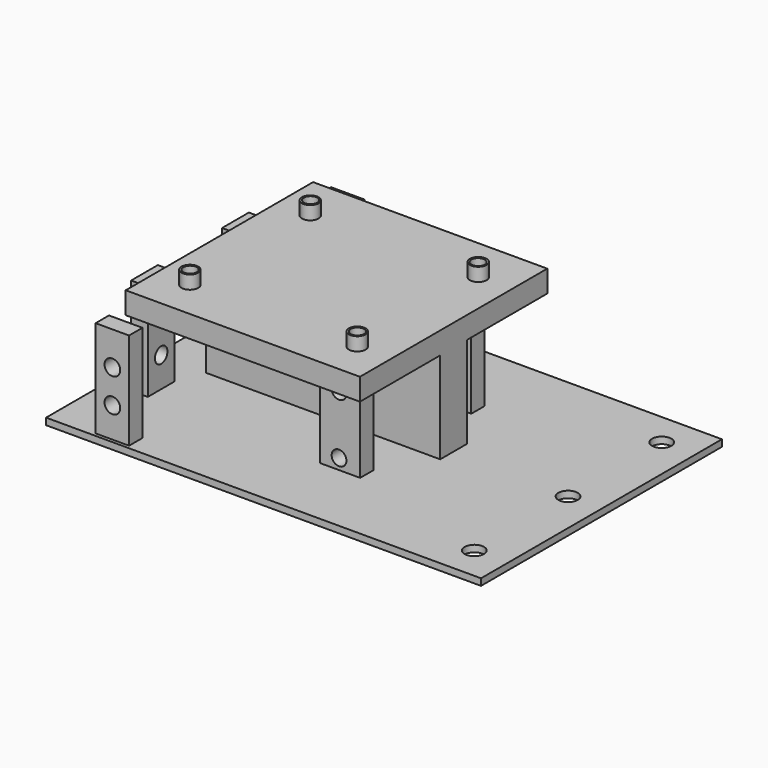
from build123d import *

# Parameters (mm, degrees)
SKETCH058_R                = 2.21
EXTRUDE064_DEPTH           = 10
SKETCH057_R                = 2.21
EXTRUDE063_DEPTH           = 10
SKETCH056_W                = 12
SKETCH056_H                = 26.01178
EXTRUDE062_DEPTH           = 5
SKETCH055_R                = 2.21
EXTRUDE061_DEPTH           = 10
SKETCH054_R                = 2.21
EXTRUDE060_DEPTH           = 10
SKETCH053_W                = 12
SKETCH053_H                = 26.01178
EXTRUDE059_DEPTH           = 5
SKETCH048_R                = 2.34
EXTRUDE050_DEPTH           = 20
SKETCH047_W                = 10
SKETCH047_H                = 30
EXTRUDE049_DEPTH           = 5
EXTRUDE049_PLACEMENT_ANGLE = 90
CUT029_PLACEMENT_ANGLE     = 90
SKETCH040_R                = 2.34
EXTRUDE042_DEPTH           = 20
SKETCH039_W                = 10
SKETCH039_H                = 30
EXTRUDE041_DEPTH           = 5
EXTRUDE041_PLACEMENT_ANGLE = 90
SKETCH038_R                = 2.34
EXTRUDE039_DEPTH           = 20
SKETCH037_W                = 10
SKETCH037_H                = 30
EXTRUDE038_DEPTH           = 5
EXTRUDE038_PLACEMENT_ANGLE = 90
SKETCH046_R                = 2.34
EXTRUDE048_DEPTH           = 20
SKETCH045_W                = 10
SKETCH045_H                = 30
EXTRUDE047_DEPTH           = 5
EXTRUDE047_PLACEMENT_ANGLE = 90
CUT026_PLACEMENT_ANGLE     = 90
SKETCH016_R                = 2.005
EXTRUDE058_DEPTH           = 20
EXTRUDE057_DEPTH           = 20
EXTRUDE056_DEPTH           = 20
EXTRUDE055_DEPTH           = 20
SKETCH015_R                = 2.5
EXTRUDE054_DEPTH           = 8
EXTRUDE053_DEPTH           = 70
EXTRUDE053_PLACEMENT_ANGLE = 90
SKETCH051_R                = 2.9
EXTRUDE052_DEPTH           = 50
SKETCH050_W                = 130
SKETCH050_H                = 90
EXTRUDE051_DEPTH           = 2


with BuildPart() as extrude064:
    # Sketch058 → Extrude064 (new body)
    with BuildSketch(Plane.XZ):
        with Locations((-30.242167, 20.01615)):
            Circle(SKETCH058_R)
    extrude(amount=EXTRUDE064_DEPTH)


with BuildPart() as extrude064_1:
    # Extrude064 placement: moved
    add(extrude064.part.moved(Location((-9.8, 5, -14.82))))


with BuildPart() as extrude063:
    # Sketch057 → Extrude063 (new body)
    with BuildSketch(Plane.XZ):
        with Locations((-30.242167, 20.01615)):
            Circle(SKETCH057_R)
    extrude(amount=EXTRUDE063_DEPTH)


with BuildPart() as extrude063_1:
    # Extrude063 placement: moved
    add(extrude063.part.moved(Location((-9.8, 3, 2.68))))


with BuildPart() as cut035:
    # Sketch056 → Extrude062 (new body)
    with BuildSketch(Plane.XZ):
        with Locations((-39.733391, 13.00589)):
            Rectangle(SKETCH056_W, SKETCH056_H)
    extrude(amount=EXTRUDE062_DEPTH)

    # Cut034: cut Extrude063
    add(extrude063_1.part, mode=Mode.SUBTRACT)

    # Cut035: cut Extrude064
    add(extrude064_1.part, mode=Mode.SUBTRACT)


with BuildPart() as cut035_1:
    # Cut035 placement: moved
    add(cut035.part.moved(Location((0, 68.5, 6))))


with BuildPart() as extrude061:
    # Sketch055 → Extrude061 (new body)
    with BuildSketch(Plane.XZ):
        with Locations((-30.242167, 20.01615)):
            Circle(SKETCH055_R)
    extrude(amount=EXTRUDE061_DEPTH)


with BuildPart() as extrude061_1:
    # Extrude061 placement: moved
    add(extrude061.part.moved(Location((-9.8, 5, -14.82))))


with BuildPart() as extrude060:
    # Sketch054 → Extrude060 (new body)
    with BuildSketch(Plane.XZ):
        with Locations((-30.242167, 20.01615)):
            Circle(SKETCH054_R)
    extrude(amount=EXTRUDE060_DEPTH)


with BuildPart() as extrude060_1:
    # Extrude060 placement: moved
    add(extrude060.part.moved(Location((-9.8, 3, 2.68))))


with BuildPart() as cut033:
    # Sketch053 → Extrude059 (new body)
    with BuildSketch(Plane.XZ):
        with Locations((-39.733391, 13.00589)):
            Rectangle(SKETCH053_W, SKETCH053_H)
    extrude(amount=EXTRUDE059_DEPTH)

    # Cut032: cut Extrude060
    add(extrude060_1.part, mode=Mode.SUBTRACT)

    # Cut033: cut Extrude061
    add(extrude061_1.part, mode=Mode.SUBTRACT)


with BuildPart() as cut033_1:
    # Cut033 placement: moved
    add(cut033.part.moved(Location((0, 27, 6))))


with BuildPart() as tornillos010:
    # Sketch048 (on Face6 of Extrude049) → Extrude050 (new body)
    with BuildSketch(Plane(origin=(-101, -107, 0), x_dir=(0, -1, 0), z_dir=(-1, 0, 0))):
        with Locations((-135.006037, 30)):
            Circle(SKETCH048_R)
        with Locations((-135.008375, 20)):
            Circle(SKETCH048_R)
    extrude(amount=EXTRUDE050_DEPTH)


with BuildPart() as tornillos010_1:
    # Extrude050 placement: moved
    add(tornillos010.part.moved(Location((17, 0, 0))))


with BuildPart() as soporte012:
    # Sketch047 → Extrude049 (new body)
    with BuildSketch(Plane.XZ):
        with Locations((-135, 25)):
            Rectangle(SKETCH047_W, SKETCH047_H)
    extrude(amount=EXTRUDE049_DEPTH)


with BuildPart() as soporte012_1:
    # Extrude049 placement: moved
    add(soporte012.part.moved(Location((-96, -107, 0))).rotate(Axis((-96, -107, 0), (0, 0, -1)), EXTRUDE049_PLACEMENT_ANGLE))

    # Cut029: cut Tornillos010
    add(tornillos010_1.part, mode=Mode.SUBTRACT)


with BuildPart() as soporte012_2:
    # Cut029 placement: moved
    add(soporte012_1.part.moved(Location((-119, -12, -3))).rotate(Axis((-119, -12, -3), (0, 0, -1)), CUT029_PLACEMENT_ANGLE))


with BuildPart() as tornillos007:
    # Sketch040 (on Face6 of Extrude041) → Extrude042 (new body)
    with BuildSketch(Plane(origin=(-101, -107, 0), x_dir=(0, -1, 0), z_dir=(-1, 0, 0))):
        with Locations((-135.006037, 30)):
            Circle(SKETCH040_R)
        with Locations((-135.008375, 20)):
            Circle(SKETCH040_R)
    extrude(amount=EXTRUDE042_DEPTH)


with BuildPart() as tornillos007_1:
    # Extrude042 placement: moved
    add(tornillos007.part.moved(Location((17, 0, 0))))


with BuildPart() as soporte011:
    # Sketch039 → Extrude041 (new body)
    with BuildSketch(Plane.XZ):
        with Locations((-135, 25)):
            Rectangle(SKETCH039_W, SKETCH039_H)
    extrude(amount=EXTRUDE041_DEPTH)


with BuildPart() as soporte011_1:
    # Extrude041 placement: moved
    add(soporte011.part.moved(Location((-96, -107, 0))).rotate(Axis((-96, -107, 0), (0, 0, -1)), EXTRUDE041_PLACEMENT_ANGLE))

    # Cut028: cut Tornillos007
    add(tornillos007_1.part, mode=Mode.SUBTRACT)


with BuildPart() as soporte011_2:
    # Cut028 placement: moved
    add(soporte011_1.part.moved(Location((-2, 34, -3))))


with BuildPart() as tornillos005:
    # Sketch038 (on Face6 of Extrude038) → Extrude039 (new body)
    with BuildSketch(Plane(origin=(-101, -107, 0), x_dir=(0, -1, 0), z_dir=(-1, 0, 0))):
        with Locations((-135.006037, 30)):
            Circle(SKETCH038_R)
        with Locations((-135.008375, 20)):
            Circle(SKETCH038_R)
    extrude(amount=EXTRUDE039_DEPTH)


with BuildPart() as tornillos005_1:
    # Extrude039 placement: moved
    add(tornillos005.part.moved(Location((17, 0, 0))))


with BuildPart() as soporte010:
    # Sketch037 → Extrude038 (new body)
    with BuildSketch(Plane.XZ):
        with Locations((-135, 25)):
            Rectangle(SKETCH037_W, SKETCH037_H)
    extrude(amount=EXTRUDE038_DEPTH)


with BuildPart() as soporte010_1:
    # Extrude038 placement: moved
    add(soporte010.part.moved(Location((-96, -107, 0))).rotate(Axis((-96, -107, 0), (0, 0, -1)), EXTRUDE038_PLACEMENT_ANGLE))

    # Cut027: cut Tornillos005
    add(tornillos005_1.part, mode=Mode.SUBTRACT)


with BuildPart() as soporte010_2:
    # Cut027 placement: moved
    add(soporte010_1.part.moved(Location((-2, 0, -3))))


with BuildPart() as tornillos009:
    # Sketch046 (on Face6 of Extrude047) → Extrude048 (new body)
    with BuildSketch(Plane(origin=(-101, -107, 0), x_dir=(0, -1, 0), z_dir=(-1, 0, 0))):
        with Locations((-135.006037, 30)):
            Circle(SKETCH046_R)
        with Locations((-135.008375, 20)):
            Circle(SKETCH046_R)
    extrude(amount=EXTRUDE048_DEPTH)


with BuildPart() as tornillos009_1:
    # Extrude048 placement: moved
    add(tornillos009.part.moved(Location((17, 0, 0))))


with BuildPart() as soporte009:
    # Sketch045 → Extrude047 (new body)
    with BuildSketch(Plane.XZ):
        with Locations((-135, 25)):
            Rectangle(SKETCH045_W, SKETCH045_H)
    extrude(amount=EXTRUDE047_DEPTH)


with BuildPart() as soporte009_1:
    # Extrude047 placement: moved
    add(soporte009.part.moved(Location((-96, -107, 0))).rotate(Axis((-96, -107, 0), (0, 0, -1)), EXTRUDE047_PLACEMENT_ANGLE))

    # Cut026: cut Tornillos009
    add(tornillos009_1.part, mode=Mode.SUBTRACT)


with BuildPart() as soporte009_2:
    # Cut026 placement: moved
    add(soporte009_1.part.moved(Location((-119, -95, -3))).rotate(Axis((-119, -95, -3), (0, 0, -1)), CUT026_PLACEMENT_ANGLE))


with BuildPart() as tornillo008:
    # Sketch016 (on Face16 of Fusion001) → Extrude058 (new body)
    with BuildSketch(Plane.XY.offset(45.913223)):
        with Locations((-84.962639, 67.504814)):
            Circle(SKETCH016_R)
    extrude(amount=EXTRUDE058_DEPTH)


with BuildPart() as tornillo008_1:
    # Extrude058 placement: moved
    add(tornillo008.part.moved(Location((0, -45, -17))))


with BuildPart() as tornillo007:
    # Sketch016 (on Face16 of Fusion001) → Extrude057 (new body)
    with BuildSketch(Plane.XY.offset(45.913223)):
        with Locations((-84.962639, 67.504814)):
            Circle(SKETCH016_R)
    extrude(amount=EXTRUDE057_DEPTH)


with BuildPart() as tornillo007_1:
    # Extrude057 placement: moved
    add(tornillo007.part.moved(Location((50, -45, -15))))


with BuildPart() as tornillo006:
    # Sketch016 (on Face16 of Fusion001) → Extrude056 (new body)
    with BuildSketch(Plane.XY.offset(45.913223)):
        with Locations((-84.962639, 67.504814)):
            Circle(SKETCH016_R)
    extrude(amount=EXTRUDE056_DEPTH)


with BuildPart() as tornillo006_1:
    # Extrude056 placement: moved
    add(tornillo006.part.moved(Location((0, 0, -15))))


with BuildPart() as tornillo005:
    # Sketch016 (on Face16 of Fusion001) → Extrude055 (new body)
    with BuildSketch(Plane.XY.offset(45.913223)):
        with Locations((-84.962639, 67.504814)):
            Circle(SKETCH016_R)
    extrude(amount=EXTRUDE055_DEPTH)


with BuildPart() as tornillo005_1:
    # Extrude055 placement: moved
    add(tornillo005.part.moved(Location((50.1, 0, -18))))


with BuildPart() as tornillos012:
    # Sketch015 (on Face16 of Fusion) → Extrude054 (new body)
    with BuildSketch(Plane.XY.offset(41.913223)):
        with Locations((-84.986267, 67.433998)):
            Circle(SKETCH015_R)
        with Locations((-85.013062, 22.499535)):
            Circle(SKETCH015_R)
        with Locations((-35.024185, 22.542374)):
            Circle(SKETCH015_R)
        with Locations((-34.910458, 67.59893)):
            Circle(SKETCH015_R)
    extrude(amount=EXTRUDE054_DEPTH)


with BuildPart() as tornillos012_1:
    # Extrude054 placement: moved
    add(tornillos012.part.moved(Location((0, 0, -4))))


with BuildPart() as obj1:
    # Sketch052 → Extrude053 (new body)
    with BuildSketch(Plane.XZ):
        Polygon((-100, 9.995709), (-100, 37.355709), (-130, 37.355709), (-130, 43.915709), (-60, 43.915709), (-60, 37.355709), (-90, 37.355709), (-90, 9.995709), align=None)
    extrude(amount=EXTRUDE053_DEPTH)


with BuildPart() as obj1_1:
    # Extrude053 placement: moved
    add(obj1.part.moved(Location((-25, -49, -2))).rotate(Axis((-25, -49, -2), (0, 0, -1)), EXTRUDE053_PLACEMENT_ANGLE))


with BuildPart() as tornillos011:
    # Sketch051 (on Face6 of Extrude051) → Extrude052 (new body)
    with BuildSketch(Plane.XY.offset(2)):
        with Locations((120, 80.020506)):
            Circle(SKETCH051_R)
        with Locations((120, 45.010253)):
            Circle(SKETCH051_R)
        with Locations((120, 10)):
            Circle(SKETCH051_R)
    extrude(amount=EXTRUDE052_DEPTH)


with BuildPart() as tornillos011_1:
    # Extrude052 placement: moved
    add(tornillos011.part.moved(Location((0, 0, -31))))


with BuildPart() as no:
    # Sketch050 → Extrude051 (new body)
    with BuildSketch(Plane.XY):
        with Locations((65, 45)):
            Rectangle(SKETCH050_W, SKETCH050_H)
    extrude(amount=EXTRUDE051_DEPTH)

    # Cut021: cut Tornillos011
    add(tornillos011_1.part, mode=Mode.SUBTRACT)


with BuildPart() as no_1:
    # Cut021 placement: moved
    add(no.part.moved(Location((-110, 0, 6))))

    # Fusion010: union obj1
    add(obj1_1.part)

    # Fusion011: union Tornillos012
    add(tornillos012_1.part)

    # Cut022: cut Tornillo005
    add(tornillo005_1.part, mode=Mode.SUBTRACT)

    # Cut023: cut Tornillo006
    add(tornillo006_1.part, mode=Mode.SUBTRACT)

    # Cut024: cut Tornillo007
    add(tornillo007_1.part, mode=Mode.SUBTRACT)

    # Cut025: cut Tornillo008
    add(tornillo008_1.part, mode=Mode.SUBTRACT)

    # Fusion012: union Soporte009
    add(soporte009_2.part)

    # Fusion013: union Soporte010
    add(soporte010_2.part)

    # Fusion014: union Soporte011
    add(soporte011_2.part)

    # Fusion015: union Soporte012
    add(soporte012_2.part)

    # Fusion016: union Cut033
    add(cut033_1.part)

    # Fusion017: union Cut035
    add(cut035_1.part)


solid = no_1.part
